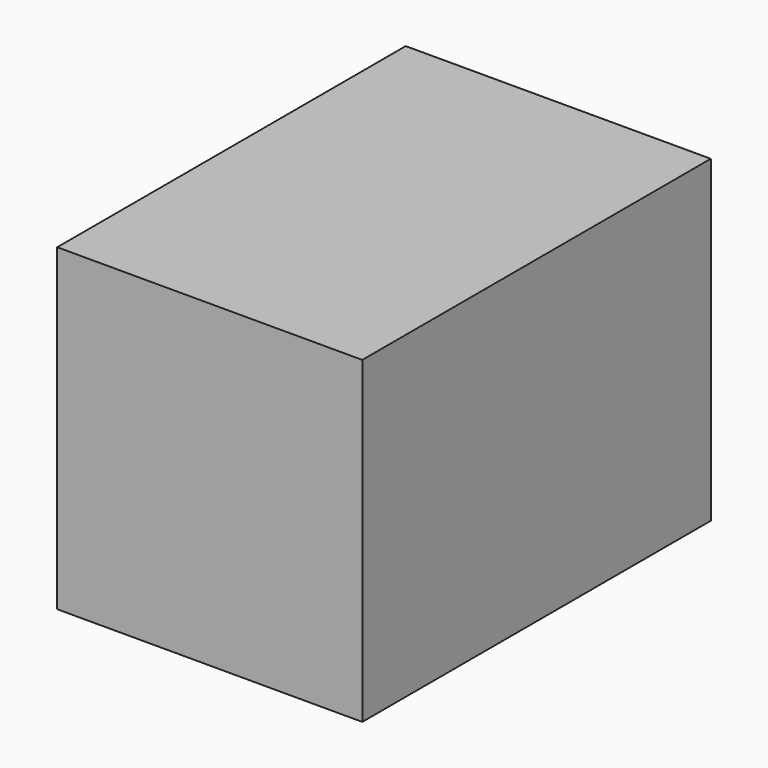
from build123d import *

# Parameters (mm, degrees)
F0_W     = 45.3905574977
F0_H     = 31.6605865955
F1_DEPTH = 69.85


with BuildPart() as f1:
    # F0 (on Right) → F1 (new body)
    with BuildSketch(Plane.YZ):
        Polygon((4.7779544257, 106.444992125), (-19.7090581059, 106.444992125), (-19.7090581059, 54.336193949), (-94.9618369341, 54.336193949), (-94.9618369341, 33.4722064435), (4.7779544257, 33.4722064435), align=None)
        Polygon((-19.7090581059, 106.444992125), (-49.5712794363, 106.444992125), (-49.5712794363, 74.7844055295), (-94.9618369341, 74.7844055295), (-94.9618369341, 54.336193949), (-19.7090581059, 54.336193949), align=None)
        with Locations((-72.2665581852, 90.6146988273)):
            Rectangle(F0_W, F0_H)
    extrude(amount=F1_DEPTH)


solid = f1.part
